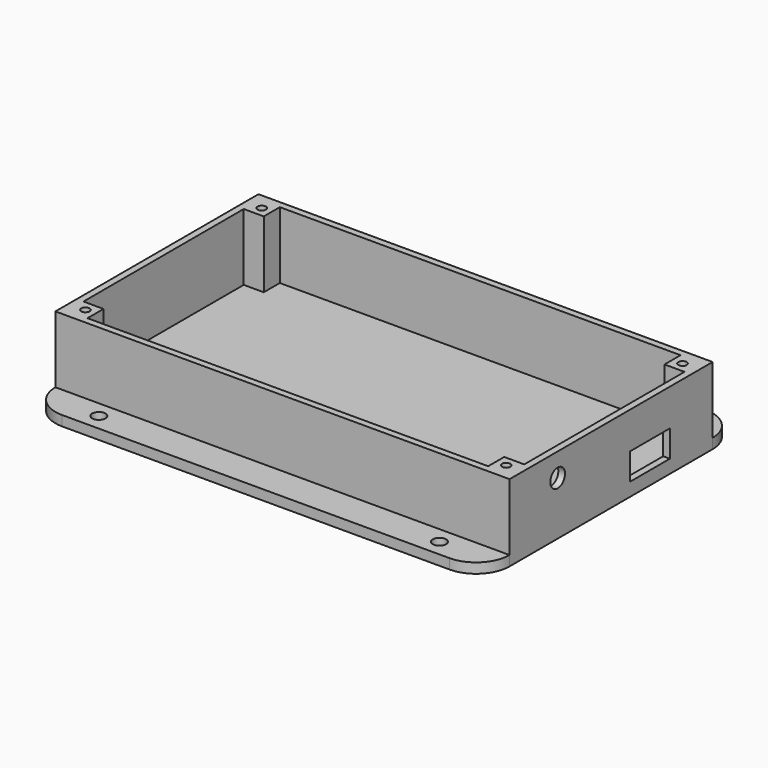
from build123d import *

# Parameters (mm, degrees)
SKETCH_R        = 2
PAD_DEPTH       = 3
SKETCH001_W     = 136
SKETCH001_H     = 76
PAD001_DEPTH    = 20
SKETCH002_R     = 1.25
POCKET_DEPTH    = 23
SKETCH003_R     = 2.75
SKETCH003_W     = 15
SKETCH003_H     = 8
POCKET001_DEPTH = 5


with BuildPart() as part:
    # Sketch → Pad (new body)
    with BuildSketch(Plane.XY):
        with BuildLine():
            Line((-58, 48), (58, 48))
            ThreePointArc((68, 38), (65.071068, 45.071068), (58, 48))
            Line((68, 38), (68, -38))
            ThreePointArc((58, -48), (65.071068, -45.071068), (68, -38))
            Line((58, -48), (-58, -48))
            ThreePointArc((-68, -38), (-65.071068, -45.071068), (-58, -48))
            Line((-68, -38), (-68, 38))
            ThreePointArc((-58, 48), (-65.071068, 45.071068), (-68, 38))
        make_face()
        with Locations((-51, 43)):
            Circle(SKETCH_R, mode=Mode.SUBTRACT)
        with Locations((51, 43)):
            Circle(SKETCH_R, mode=Mode.SUBTRACT)
        with Locations((-51, -43)):
            Circle(SKETCH_R, mode=Mode.SUBTRACT)
        with Locations((51, -43)):
            Circle(SKETCH_R, mode=Mode.SUBTRACT)
    extrude(amount=PAD_DEPTH)

    # Sketch001 (on Face14 of Pad) → Pad001 (join)
    with BuildSketch(Plane.XY.offset(3)):
        Rectangle(SKETCH001_W, SKETCH001_H)
        Polygon((-60, 36), (60, 36), (60, 30), (66, 30), (66, -30), (60, -30), (60, -36), (-60, -36), (-60, -30), (-66, -30), (-66, 30), (-60, 30), align=None, mode=Mode.SUBTRACT)
    extrude(amount=PAD001_DEPTH)

    # Sketch002 → Pocket (cut)
    with BuildSketch(Plane.XY.offset(23)):
        with Locations((63, -33)):
            Circle(SKETCH002_R)
        with Locations((-63, -33)):
            Circle(SKETCH002_R)
        with Locations((-63, 33)):
            Circle(SKETCH002_R)
        with Locations((63, 33)):
            Circle(SKETCH002_R)
    extrude(amount=-POCKET_DEPTH, mode=Mode.SUBTRACT)

    # Sketch003 (on Face24 of Pocket) → Pocket001 (cut)
    with BuildSketch(Plane.YZ.offset(68)):
        with Locations((-20, 16)):
            Circle(SKETCH003_R)
        with Locations((14.5, 8)):
            Rectangle(SKETCH003_W, SKETCH003_H)
    extrude(amount=-POCKET001_DEPTH, mode=Mode.SUBTRACT)


solid = part.part
